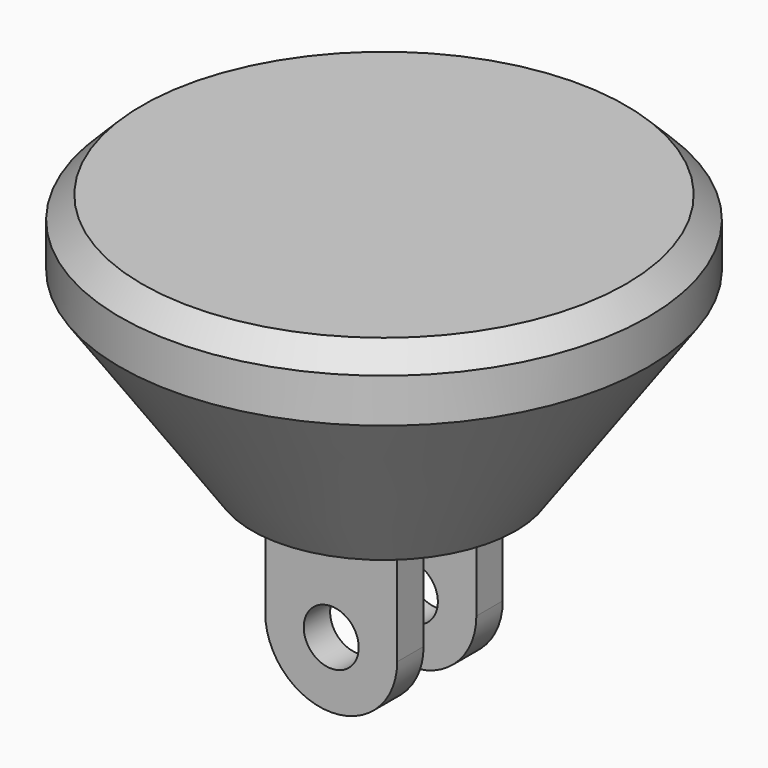
from build123d import *

# Parameters (mm, degrees)
F6_R      = 12
F4_R      = 24
F7_FACE_R = 24
F5_R      = 24
F8_FACE_R = 24
F3_R      = 22
F10_W     = 12
F10_H     = 3
F11_DEPTH = 10
F12_R     = 6
F13_DEPTH = 3
F14_R     = 2.5
F15_DEPTH = 21.0010001


with BuildPart() as f7:
    # F6 (on offset) → F7 section 0
    with BuildSketch(Plane.XY.offset(-21)):
        Circle(F6_R)
    # F4 (on offset) → F7 section 1
    with BuildSketch(Plane.XY.offset(-4)):
        Circle(F4_R)
    loft()

    # F7_face (on face) → F8 section 0
    with BuildSketch(Plane.XY.offset(-4)):
        Circle(F7_FACE_R)
    # F5 (on Top) → F8 section 1
    with BuildSketch(Plane.XY):
        Circle(F5_R)
    loft()

    # F8_face (on face) → F9 section 0
    with BuildSketch(Plane.XY):
        Circle(F8_FACE_R)
    # F3 (on offset) → F9 section 1
    with BuildSketch(Plane.XY.offset(2)):
        Circle(F3_R)
    loft()

    # F10 (on face) → F11 (join)
    with BuildSketch(Plane(origin=(0, 0, -21), x_dir=(1, 0, 0), z_dir=(0, 0, -1))):
        with Locations((0, -4.5)):
            Rectangle(F10_W, F10_H)
    extrude(amount=F11_DEPTH)

    # F12 (on face) → F13 (join)
    with BuildSketch(Plane.XZ.offset(-3)):
        with Locations((0, -31)):
            Circle(F12_R)
    extrude(amount=-F13_DEPTH)

    # F14 (on face) → F15 (cut, through all)
    with BuildSketch(Plane.XZ.offset(-3)):
        with Locations((0, -31)):
            Circle(F14_R)
    extrude(amount=-F15_DEPTH, mode=Mode.SUBTRACT)

    # F16: F7 across plane


with BuildPart() as f7_1:
    add(f7.part)
    add(f7.part.mirror(Plane.XZ))


solid = f7_1.part
